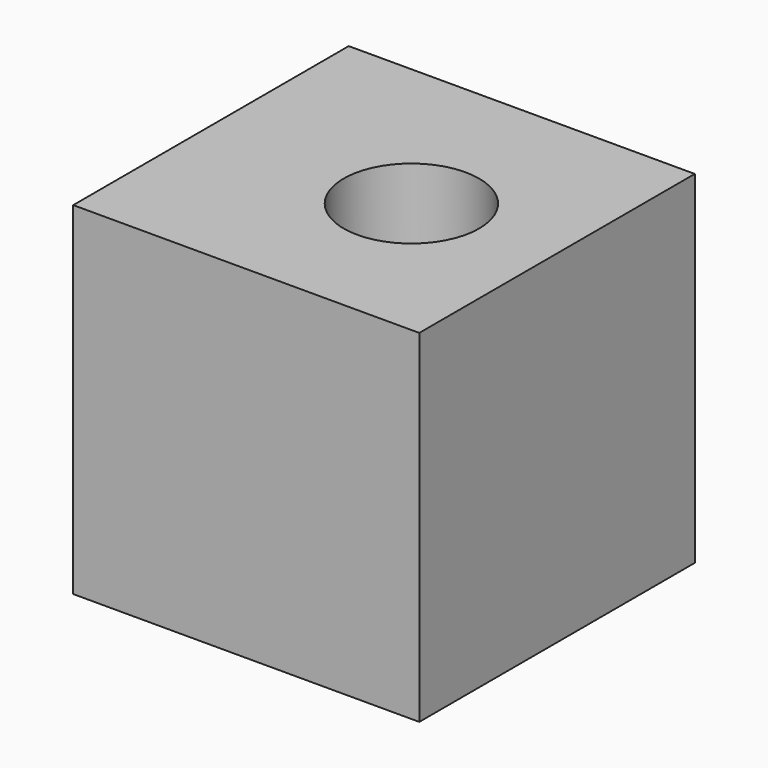
from build123d import *

# Parameters (mm, degrees)
F0_W     = 20.2084705234
F0_H     = 20.1108679175
F1_DEPTH = 20
F3_R     = 3.9554921295
F3_R_2   = 2.3007028816
F3_R_3   = 1.330304551
F4_DEPTH = 25


with BuildPart() as f1:
    # F0 (on Top) → F1 (new body)
    with BuildSketch(Plane.XY):
        with Locations((-10.1042352617, -10.0554339588)):
            Rectangle(F0_W, F0_H)
    extrude(amount=F1_DEPTH)

    # F3 (on face) → F4 (cut)
    with BuildSketch(Plane(origin=(0, 0, 0), x_dir=(1, 0, 0), z_dir=(0, 0, -1))):
        with Locations((-8.2629937679, 10.3565575555)):
            Circle(F3_R)
        with Locations((-8.2629937679, 10.3565575555)):
            Circle(F3_R_2, mode=Mode.SUBTRACT)
        with Locations((-8.2629937679, 10.3565575555)):
            Circle(F3_R_2)
        with Locations((-8.2629937679, 10.3565575555)):
            Circle(F3_R_3, mode=Mode.SUBTRACT)
        with Locations((-8.2629937679, 10.3565575555)):
            Circle(F3_R_3)
    extrude(amount=-F4_DEPTH, mode=Mode.SUBTRACT)


solid = f1.part
